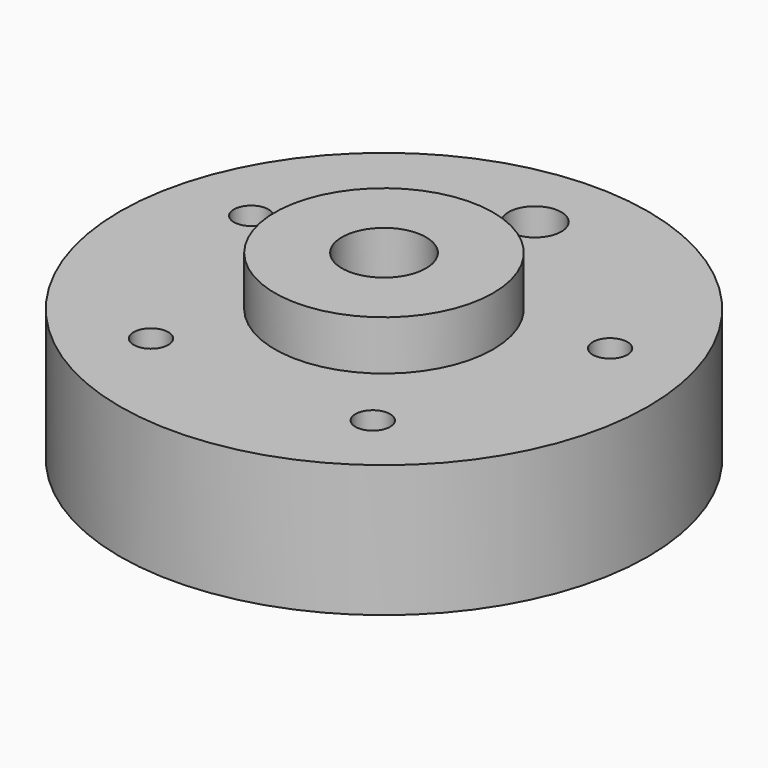
from build123d import *

# Parameters (mm, degrees)
F4_D           = 15
F4_CBORE_D     = 25.5
F4_CBORE_DEPTH = 16
F5_D           = 10.5
F6_D           = 16


with BuildPart() as f1:
    # F0 (on Front) → F1 (revolve)
    with BuildSketch(Plane.XZ):
        Polygon((30, -5), (30, 0), (80, 0), (80, 40), (33.075, 40), (33.075, 55), (0, 55), (0, 0), (0, -5), align=None)
    revolve(axis=Axis((0, 0, 27.5), (0, 0, -1)))

    # F4 (through all)
    with Locations(Plane.XY.offset(55)):
        with Locations((0, 0)):
            CounterBoreHole(F4_D / 2, F4_CBORE_D / 2, F4_CBORE_DEPTH)

    # F5 (through all)
    with Locations(Plane.XY.offset(40)):
        with Locations((-54.3528799063, 17.6603212285), (-33.5919271685, -46.2353212285), (33.5919271685, -46.2353212285), (54.3528799063, 17.6603212285)):
            Hole(F5_D / 2)

    # F6 (through all)
    with Locations(Plane.XY.offset(40)):
        with Locations((0, 57.15)):
            Hole(F6_D / 2)


solid = f1.part
